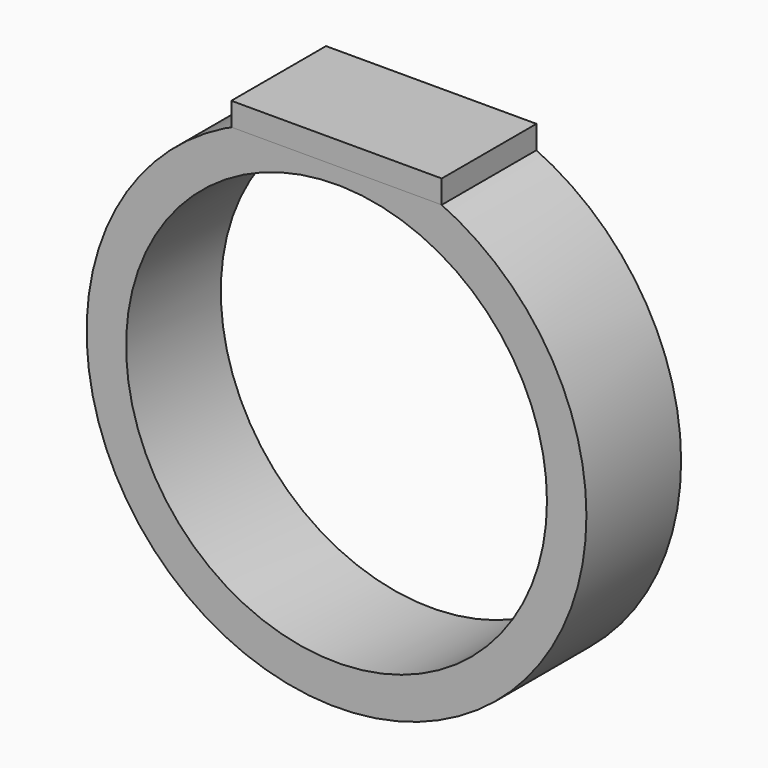
from build123d import *

# Parameters (mm, degrees)
F0_R     = 9.5
F0_R_2   = 8
F1_DEPTH = 4.5
F2_W     = 8
F2_H     = 0.883156
F3_DEPTH = 4.5


with BuildPart() as f1:
    # F0 (on Front) → F1 (new body)
    with BuildSketch(Plane.XZ):
        Circle(F0_R)
        Circle(F0_R_2, mode=Mode.SUBTRACT)
    extrude(amount=F1_DEPTH)


with BuildPart() as f3:
    # F2 (on Front) → F3 (new body)
    with BuildSketch(Plane.XZ):
        with Locations((0, 9.058422)):
            Rectangle(F2_W, F2_H)
    extrude(amount=F3_DEPTH)


solid = Compound([f1.part, f3.part])
